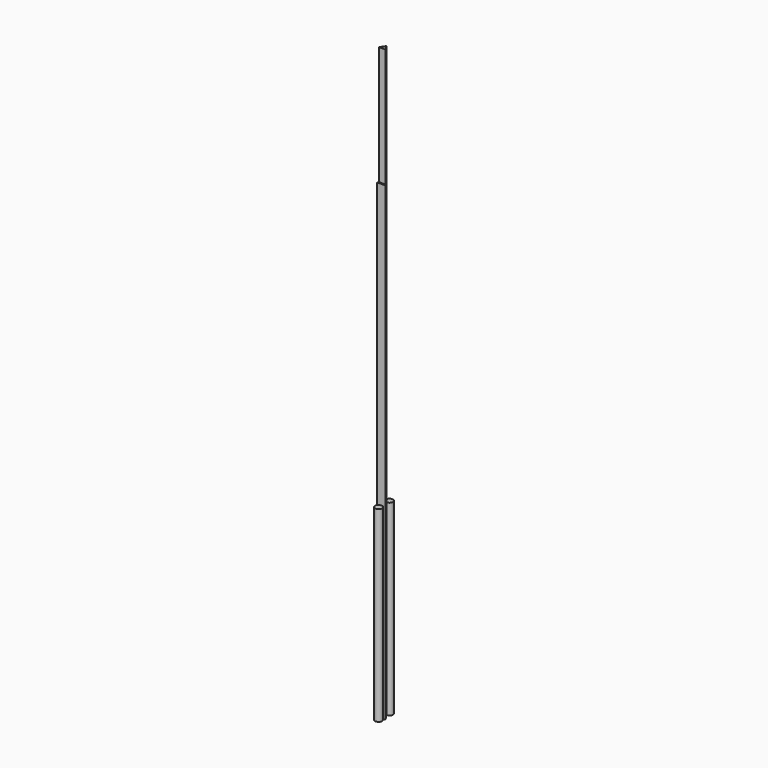
from build123d import *

# Parameters (mm, degrees)
F2_DEPTH = 3583.2374095917
F4_START = 3580.8544158936
F4_DEPTH = 907.4625968933
F5_R     = 27.2501989083
F6_DEPTH = 1426.9065856934
F5_R_2   = 26.6004704105


with BuildPart() as f2:
    # F1 (on Top) → F2 (new body)
    with BuildSketch(Plane.XY):
        Polygon((31.6138789058, -10.0240558386), (0, 38.0463600159), (-31.6138789058, -10.0240558386), (0, -10.0240558386), align=None)
    extrude(amount=F2_DEPTH)

    # F5 (on Top) → F6 (join)
    with BuildSketch(Plane.XY):
        with Locations((0, -36.203365773)):
            Circle(F5_R)
    extrude(amount=F6_DEPTH)


with BuildPart() as f4:
    # F3 (on Top) → F4 (new body)
    with BuildSketch(Plane.XY.offset(F4_START)):
        Polygon((25.1178741455, 0), (0, 38.0463600159), (-25.5509465933, 0), align=None)
    extrude(amount=F4_DEPTH)


with BuildPart() as f6:
    # F5 (on Top) → F6, piece 2 (new body)
    with BuildSketch(Plane.XY):
        with Locations((0, 68.535014987)):
            Circle(F5_R_2)
    extrude(amount=F6_DEPTH)


solid = Compound([f2.part, f4.part, f6.part])
